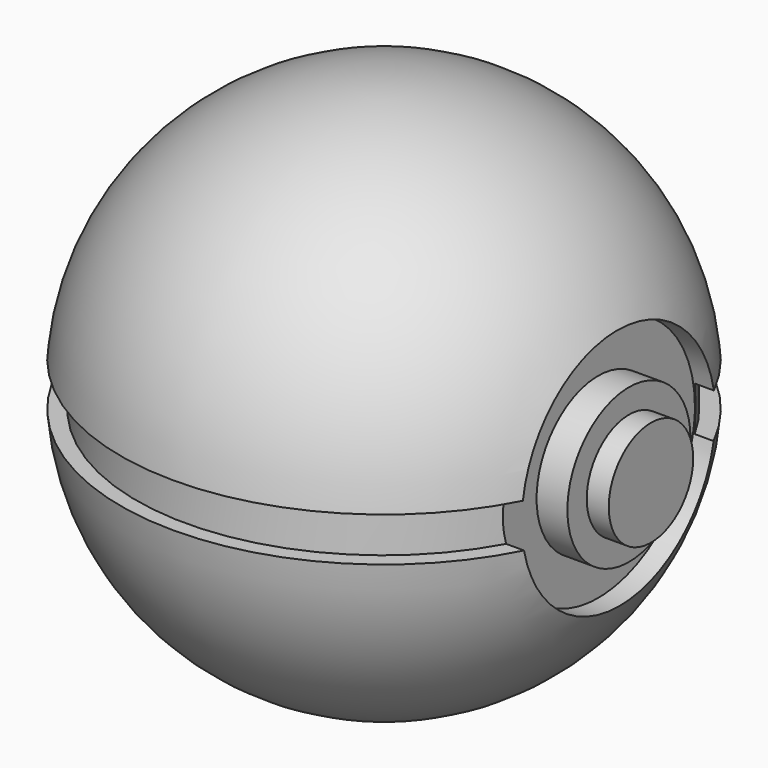
from build123d import *

# Parameters (mm, degrees)
F3_W      = 7.5
F3_H      = 5
F5_W      = 1.25
F5_H      = 5
F8_R      = 13.75
F9_DEPTH  = 7.15
F10_R     = 13.75
F10_R_2   = 8.75
F11_DEPTH = 1.5
F12_R     = 8.75
F13_DEPTH = 5
F14_R     = 6
F15_DEPTH = 2.5


with BuildPart() as f1:
    # F0 (on Right) → F1 (revolve)
    with BuildSketch(Plane.YZ):
        with BuildLine():
            Line((-9.245e-07, 0), (-9.245e-07, 30))
            ThreePointArc((-9.245e-07, 30), (-21.2132043601, 21.2132034356), (-30.0000009245, 0))
            Line((-30.0000009245, 0), (-9.245e-07, 0))
        make_face()
    revolve(axis=Axis((0, -9.245e-07, 15), (0, 0, 1)))


with BuildPart() as f2_1:
    # F2: instance of F1
    add(f1.part.mirror(Plane.XY))


with BuildPart() as f4_tool:
    # F3 (on Right) → F4 (revolve)
    with BuildSketch(Plane.YZ):
        with Locations((-30.4568037391, 0)):
            Rectangle(F3_W, F3_H)
    revolve(axis=Axis((0, -0.0311268886, -0.3012642264), (0, 0, -1)))


with BuildPart() as f1_1:
    add(f1.part)

    # F4: cut by f4_tool
    add(f4_tool.part, mode=Mode.SUBTRACT)


with BuildPart() as f2_1_1:
    add(f2_1.part)

    # F4: cut by f4_tool
    add(f4_tool.part, mode=Mode.SUBTRACT)


with BuildPart() as f6:
    # F5 (on Right) → F6 (revolve)
    with BuildSketch(Plane.YZ):
        with Locations((-27.5242437874, 0)):
            Rectangle(F5_W, F5_H)
    revolve(axis=Axis((0, -0.1021973221, 0.176653266), (0, 0, -1)))


with BuildPart() as f9_tool:
    # F8 (on offset) → F9 (new body)
    with BuildSketch(Plane.YZ.offset(30)):
        with Locations((-2.4813e-06, 0.2651515242)):
            Circle(F8_R)
    extrude(amount=-F9_DEPTH)


with BuildPart() as f1_2:
    add(f1_1.part)

    # F9: cut by f9_tool
    add(f9_tool.part, mode=Mode.SUBTRACT)


with BuildPart() as f2_1_2:
    add(f2_1_1.part)

    # F9: cut by f9_tool
    add(f9_tool.part, mode=Mode.SUBTRACT)


with BuildPart() as f6_1:
    add(f6.part)

    # F9: cut by f9_tool
    add(f9_tool.part, mode=Mode.SUBTRACT)

    # F10 (on face) → F11 (join)
    with BuildSketch(Plane.YZ.offset(22.85)):
        with Locations((-0.0068950708, 0)):
            Circle(F10_R)
        with Locations((-0.0068950708, 0)):
            Circle(F10_R_2, mode=Mode.SUBTRACT)
    extrude(amount=F11_DEPTH)


with BuildPart() as f13:
    # F12 (on face) → F13 (new body)
    with BuildSketch(Plane.YZ.offset(22.85)):
        with Locations((-0.0068950708, 0)):
            Circle(F12_R)
    extrude(amount=F13_DEPTH)

    # F14 (on face) → F15 (join)
    with BuildSketch(Plane.YZ.offset(27.85)):
        with Locations((-0.0068950708, 0)):
            Circle(F14_R)
    extrude(amount=F15_DEPTH)


solid = Compound([f1_2.part, f2_1_2.part, f6_1.part, f13.part])
